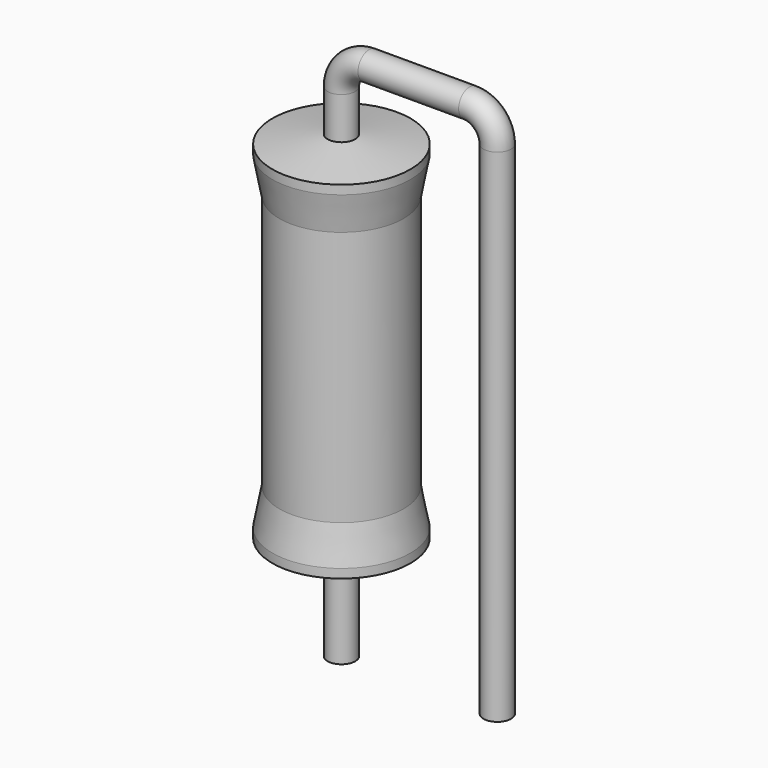
from build123d import *

# Parameters (mm, degrees)
SKETCH_R = 0.45


with BuildPart() as sweep_body:
    # Sweep: sweep along a path in Sketch001
    with BuildLine(Plane.XZ) as sweep_path:
        Line((0, -3), (0, 13.35))
        ThreePointArc((0, 13.35), (0.263608, 13.9864), (0.900012, 14.25))
        Line((0.900012, 14.25), (4.18, 14.25))
        ThreePointArc((4.18, 14.25), (4.816396, 13.986396), (5.08, 13.35))
        Line((5.08, 13.35), (5.08, -3))
    # Sketch → Sweep (sweep)
    with BuildSketch(Plane.XY.offset(-2)):
        Circle(SKETCH_R)
    sweep(path=sweep_path.line)


with BuildPart() as revolution:
    # Sketch002 → Revolution (revolve)
    with BuildSketch(Plane.XZ):
        Polygon((0, 0.1), (0, 12), (0.3375, 12), (2.25, 11.7025), (2.25, 11.41), (2.025, 10.215), (2.025, 1.885), (2.25, 0.69), (2.25, 0.3975), (0.3375, 0.1), align=None)
    revolve(axis=Axis((0, 0, 0), (0, 0, 1)))


solid = Compound([sweep_body.part, revolution.part])
